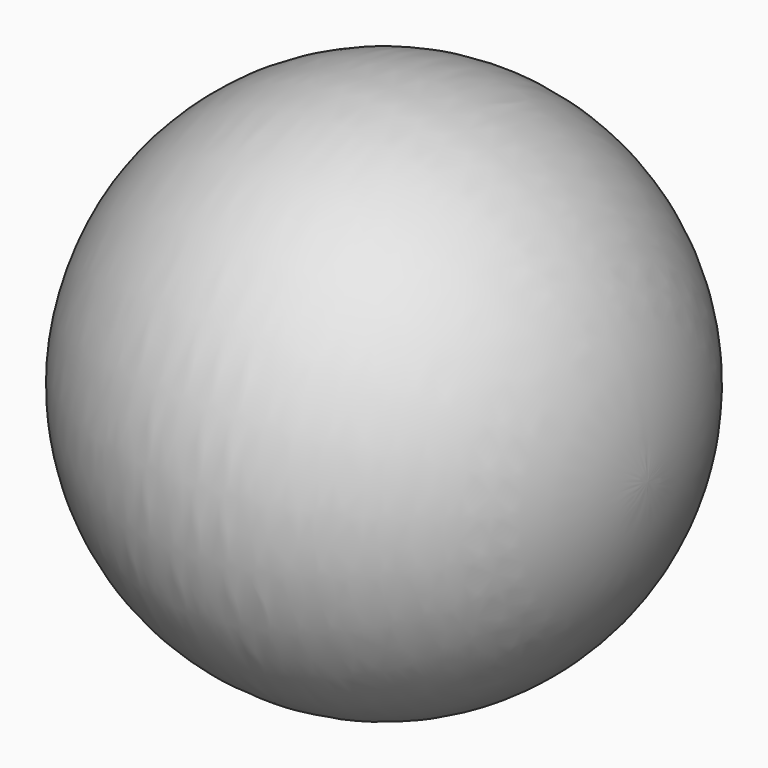
from build123d import *


with BuildPart() as f1:
    # F0 (on Front) → F1 (revolve)
    with BuildSketch(Plane.XZ):
        with BuildLine():
            Line((-7.322574, 0), (12.7, 0))
            ThreePointArc((12.7, 0), (4.02513, 12.045262), (-10.148556, 7.635235))
            ThreePointArc((-10.148556, 7.635235), (-8.051738, 4.070718), (-7.322574, 0))
        make_face()
    revolve(axis=Axis((2.688713, 0, 0), (-1, 0, 0)))

    # F2 (on Front) → F3 (revolve)
    with BuildSketch(Plane.XZ):
        Polygon((-12.7, 0), (-4.648126, 0), (-4.91779, 3.628904), align=None)
    revolve(axis=Axis((-8.674063, 0, 0), (-1, 0, 0)))


solid = f1.part
